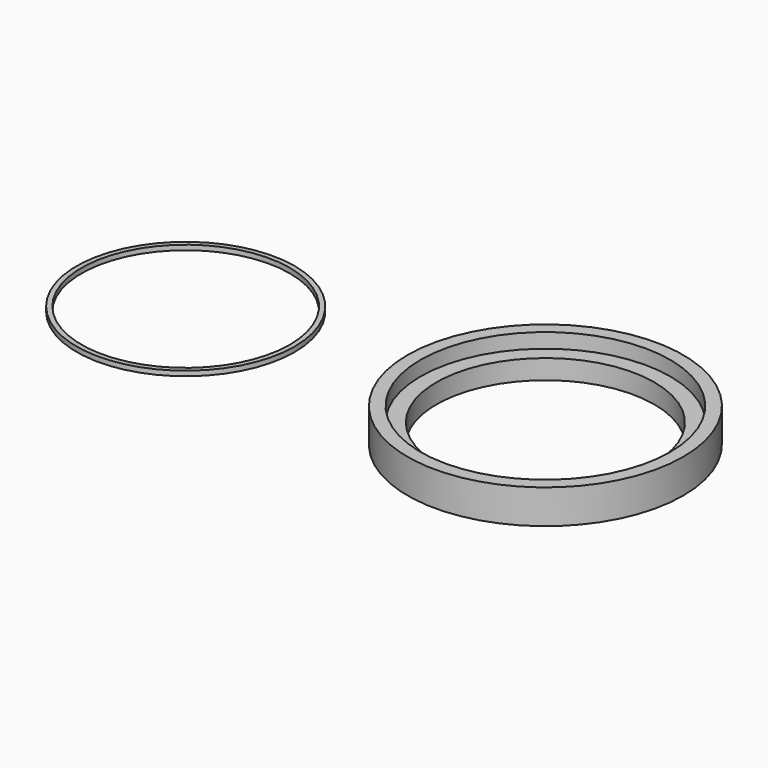
from build123d import *

# Parameters (mm, degrees)
F0_R     = 25.6
F0_R_2   = 22.35
F1_DEPTH = 4
F0_R_3   = 28.26882
F2_DEPTH = 7
F0_R_4   = 21.35
F3_DEPTH = 1


with BuildPart() as f1:
    # F0 (on Top) → F1 (new body)
    with BuildSketch(Plane.XY):
        Circle(F0_R)
        Circle(F0_R_2, mode=Mode.SUBTRACT)
    extrude(amount=F1_DEPTH)

    # F0 (on Top) → F2 (join)
    with BuildSketch(Plane.XY):
        Circle(F0_R_3)
        Circle(F0_R, mode=Mode.SUBTRACT)
    extrude(amount=F2_DEPTH)


with BuildPart() as f3:
    # F0 (on Top) → F3 (new body)
    with BuildSketch(Plane.XY):
        with Locations((-73.752664, 0)):
            Circle(F0_R_2)
        with Locations((-73.752664, 0)):
            Circle(F0_R_4, mode=Mode.SUBTRACT)
    extrude(amount=F3_DEPTH)


solid = Compound([f1.part, f3.part])
